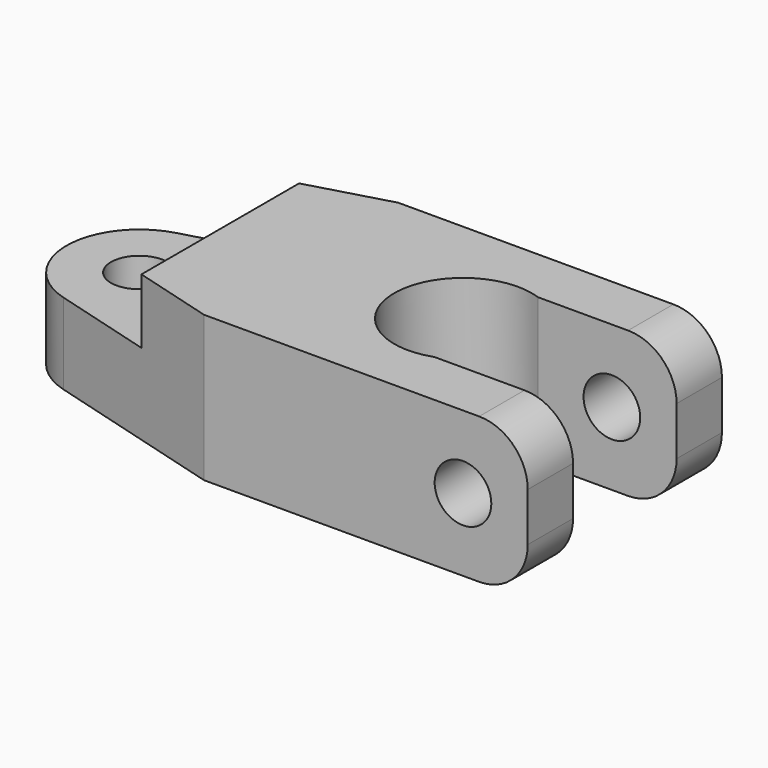
from build123d import *

# Parameters (mm, degrees)
F0_R     = 1.75
F0_W     = 20
F0_H     = 15
F1_DEPTH = 9
F2_W     = 12.9252894117
F2_H     = 15.5579744821
F3_DEPTH = 4
F5_DEPTH = 2.5
F7_DEPTH = 25
F8_R     = 1.75
F9_DEPTH = 25
F10_R    = 3


with BuildPart() as f1:
    # F0 (on Top) → F1 (new body)
    with BuildSketch(Plane.XY):
        with BuildLine():
            ThreePointArc((-1.2229712186, -4.3306282914), (2.7153848269, -3.5884098486), (4.5, 0))
            ThreePointArc((4.5, 0), (2.7153848269, 3.5884098486), (-1.2229712186, 4.3306282914))
            ThreePointArc((-1.2229712186, 4.3306282914), (-4.5, 0), (-1.2229712186, -4.3306282914))
        make_face()
        Circle(F0_R, mode=Mode.SUBTRACT)
        with BuildLine():
            ThreePointArc((-1.2229712186, 4.3306282914), (2.7153848269, 3.5884098486), (4.5, 0))
            ThreePointArc((4.5, 0), (2.7153848269, -3.5884098486), (-1.2229712186, -4.3306282914))
            Line((-1.2229712186, -4.3306282914), (10, -7.5))
            Line((10, -7.5), (10, 7.5))
            Line((10, 7.5), (-1.2229712186, 4.3306282914))
        make_face()
        with Locations((20, 0)):
            Rectangle(F0_W, F0_H)
    extrude(amount=F1_DEPTH)

    # F2 (on face) → F3 (cut)
    with BuildSketch(Plane.XY.offset(9)):
        with Locations((-1.4626447058, -0.6304618437)):
            Rectangle(F2_W, F2_H)
    extrude(amount=-F3_DEPTH, mode=Mode.SUBTRACT)

    # F4 (on face) → F5 (cut)
    with BuildSketch(Plane(origin=(0, 0, 0), x_dir=(1, 0, 0), z_dir=(0, 0, -1))):
        Polygon((2.75, -1.5877132403), (2.75, 1.5877132403), (0, 3.1754264805), (-2.75, 1.5877132403), (-2.75, -1.5877132403), (0, -3.1754264805), align=None)
    extrude(amount=-F5_DEPTH, mode=Mode.SUBTRACT)

    # F6 (on face) → F7 (cut)
    with BuildSketch(Plane.XY.offset(9)):
        with BuildLine():
            ThreePointArc((21.4361406616, -4), (23.4760680238, -2.4452916174), (24.25, 0))
            ThreePointArc((24.25, 0), (23.4760680238, 2.4452916174), (21.4361406616, 4))
            Line((21.4361406616, 4), (21.4361406616, -4))
        make_face()
        with BuildLine():
            ThreePointArc((21.4361406616, 4), (23.4760680238, 2.4452916174), (24.25, 0))
            ThreePointArc((24.25, 0), (23.4760680238, -2.4452916174), (21.4361406616, -4))
            Line((21.4361406616, -4), (30, -4))
            Line((30, -4), (30, 4))
            Line((30, 4), (21.4361406616, 4))
        make_face()
        with BuildLine():
            Line((21.4361406616, -4), (21.4361406616, 4))
            ThreePointArc((21.4361406616, 4), (15.75, 0), (21.4361406616, -4))
        make_face()
    extrude(amount=-F7_DEPTH, mode=Mode.SUBTRACT)

    # F8 (on face) → F9 (cut)
    with BuildSketch(Plane.XZ.offset(7.5)):
        with Locations((26, 4.5)):
            Circle(F8_R)
    extrude(amount=-F9_DEPTH, mode=Mode.SUBTRACT)

    # F10
    f10_edges = [f1.edges().sort_by_distance(p)[0] for p in [
        (30, -5.75, 9),
        (30, 5.75, 9),
        (30, -5.75, 0),
        (30, 5.75, 0),
    ]]
    fillet(f10_edges, radius=F10_R)


solid = f1.part
